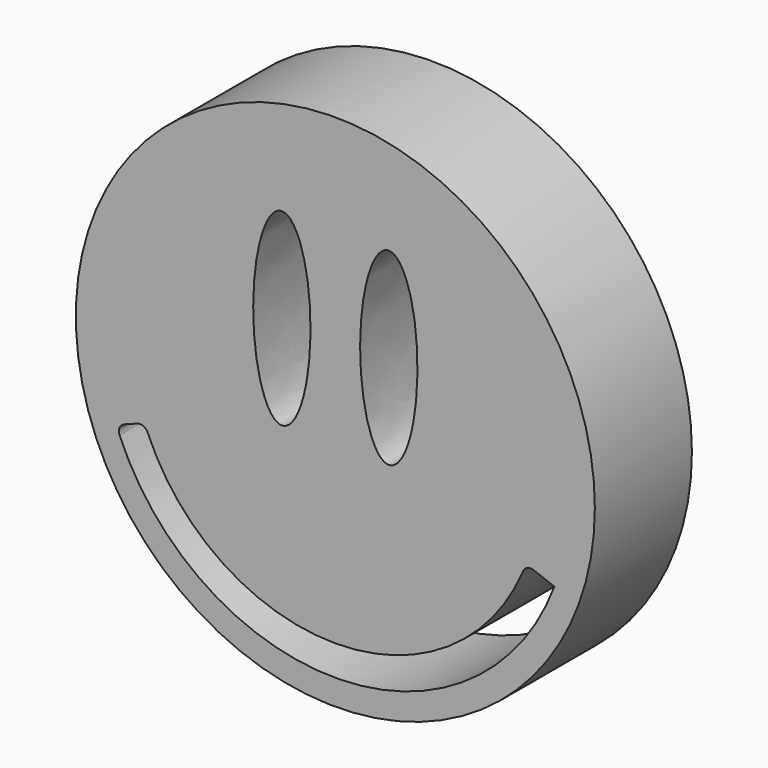
from build123d import *

# Parameters (mm, degrees)
F0_R     = 54.325127
F1_DEPTH = 25.4


with BuildPart() as f1:
    # F0 (on Front) → F1 (new body)
    with BuildSketch(Plane.XZ):
        with Locations((-8.747967, 11.802168)):
            Circle(F0_R)
        with BuildLine():
            ThreePointArc((37.098999, -5.465902), (-7.843683, -37.180613), (-53.926329, -7.146345))
            ThreePointArc((-53.926329, -7.146345), (-53.919784, -5.781959), (-52.932832, -4.839878))
            Line((-52.932832, -4.839878), (-50.252366, -3.830292))
            ThreePointArc((-50.252366, -3.830292), (-48.949705, -3.859817), (-48.031127, -4.783943))
            ThreePointArc((-48.031127, -4.783943), (-8.747967, -30.838959), (30.535192, -4.783943))
            ThreePointArc((30.535192, -4.783943), (31.453771, -3.859817), (32.756431, -3.830292))
            Line((32.756431, -3.830292), (37.098999, -5.465902))
        make_face(mode=Mode.SUBTRACT)
        with BuildLine():
            add(Edge.make_bspline(
                [(-19.941593, 5.697598), (-9.539958, 5.697598), (-14.740775, 35.304761), (-19.941593, 64.911923), (-25.14241, 35.304761), (-30.343227, 5.697598), (-19.941593, 5.697598)],
                knots=[0, 0, 0, 2.094395, 2.094395, 4.18879, 4.18879, 6.283185, 6.283185, 6.283185], degree=2, weights=[1, 0.5, 1, 0.5, 1, 0.5, 1]))
        make_face(mode=Mode.SUBTRACT)
        with BuildLine():
            add(Edge.make_bspline(
                [(2.441827, 5.697598), (12.843461, 5.697598), (7.642644, 35.304761), (2.441827, 64.911923), (-2.75899, 35.304761), (-7.959807, 5.697598), (2.441827, 5.697598)],
                knots=[0, 0, 0, 2.094395, 2.094395, 4.18879, 4.18879, 6.283185, 6.283185, 6.283185], degree=2, weights=[1, 0.5, 1, 0.5, 1, 0.5, 1]))
        make_face(mode=Mode.SUBTRACT)
    extrude(amount=F1_DEPTH)


solid = f1.part
